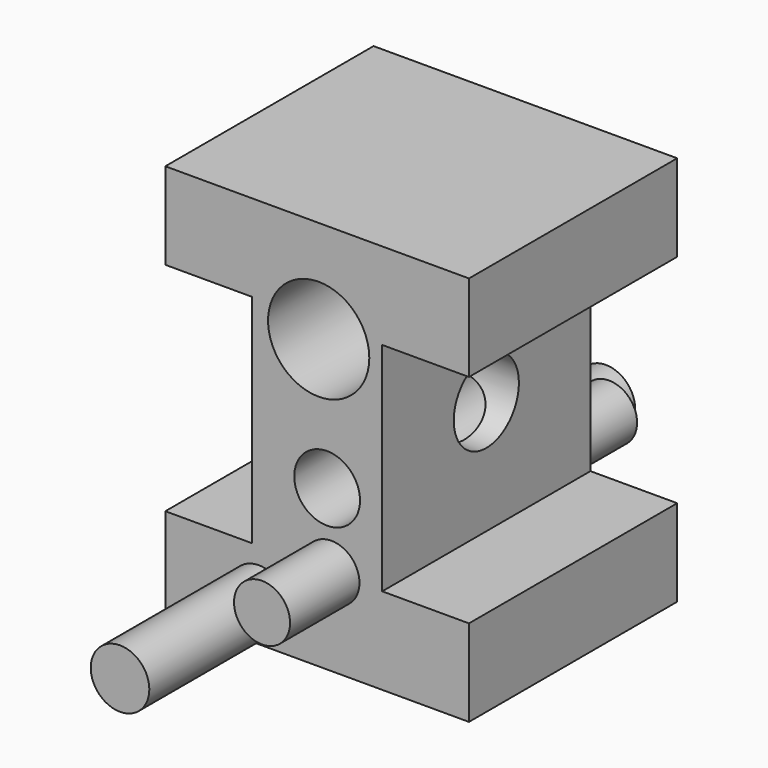
from build123d import *

# Parameters (mm, degrees)
F0_R     = 8.57274
F0_R_2   = 8.204632
F0_R_3   = 9.623839
F0_R_4   = 14.819893
F1_DEPTH = 76.2
F3_R     = 11.91717
F4_DEPTH = 63.501
F5_DEPTH = 25.4
F6_DEPTH = 50.8
F2_R     = 8.204632
F7_DEPTH = 25.4
F8_DEPTH = 127


with BuildPart() as f1:
    # F0 (on Front) → F1 (new body)
    with BuildSketch(Plane.XZ):
        Polygon((-38.049199, -33.364403), (-38.049199, -58.764403), (50.850801, -58.764403), (50.850801, -33.364403), (25.450801, -33.364403), (25.450801, 30.135597), (50.850801, 30.135597), (50.850801, 54.746323), (50.850801, 55.535597), (-38.049199, 55.535597), (-38.049199, 30.135597), (-12.649199, 30.135597), (-12.649199, -33.364403), align=None)
        with Locations((-10.668308, -46.948627)):
            Circle(F0_R, mode=Mode.SUBTRACT)
        with Locations((10.584558, -33.364403)):
            Circle(F0_R_2, mode=Mode.SUBTRACT)
        with Locations((9.324345, -12.078556)):
            Circle(F0_R_3, mode=Mode.SUBTRACT)
        with Locations((6.849488, 25.557365)):
            Circle(F0_R_4, mode=Mode.SUBTRACT)
    extrude(amount=F1_DEPTH)

    # F3 (on face) → F4 (cut, through all)
    with BuildSketch(Plane.YZ.offset(25.450801)):
        with Locations((-38.1, 0)):
            Circle(F3_R)
    extrude(amount=-F4_DEPTH, mode=Mode.SUBTRACT)

    # F0 (on Front) → F5 (join)
    with BuildSketch(Plane.XZ):
        with Locations((10.584558, -33.364403)):
            Circle(F0_R_2)
    extrude(amount=-F5_DEPTH)

    # F0 (on Front) → F6 (join)
    with BuildSketch(Plane.XZ):
        with Locations((-10.668308, -46.948627)):
            Circle(F0_R)
    extrude(amount=-F6_DEPTH)


with BuildPart() as f7:
    # F2 (on face) → F7 (new body)
    with BuildSketch(Plane.XZ.offset(76.2)):
        with Locations((10.584558, -33.364403)):
            Circle(F2_R)
    extrude(amount=F7_DEPTH)


with BuildPart() as f8:
    # F0 (on Front) → F8 (new body)
    with BuildSketch(Plane.XZ):
        with Locations((-10.668308, -46.948627)):
            Circle(F0_R)
    extrude(amount=F8_DEPTH)


solid = Compound([f1.part, f7.part, f8.part])
